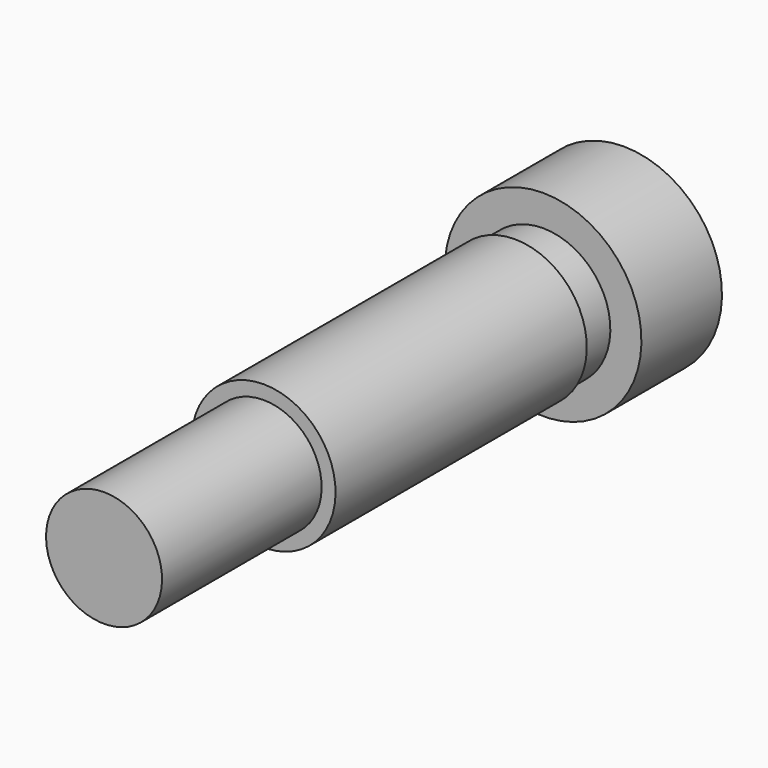
from build123d import *

# Parameters (mm, degrees)
F3_DEPTH = 3.8608


with BuildPart() as f1:
    # F0 (on Right) → F1 (revolve)
    with BuildSketch(Plane.YZ):
        Polygon((0, 3.175), (0, 0), (35.56, 0), (35.56, 5.3848), (30.0482, 5.3848), (30.0482, 3.937), (30.0482, 3.683), (28.1178, 3.683), (28.1178, 3.937), (10.922, 3.937), (10.922, 3.175), align=None)
    revolve(axis=Axis((0, 17.78, 0), (0, -1, 0)))

    # F2 (on face) → F3 (cut)
    with BuildSketch(Plane(origin=(0, 35.56, 0), x_dir=(-1, 0, 0), z_dir=(0, 1, 0))):
        Polygon((2.0955, 1.209837), (0, 2.419675), (-2.0955, 1.209837), (-2.0955, -1.209837), (0, -2.419675), (2.0955, -1.209837), align=None)
    extrude(amount=-F3_DEPTH, mode=Mode.SUBTRACT)


solid = f1.part
